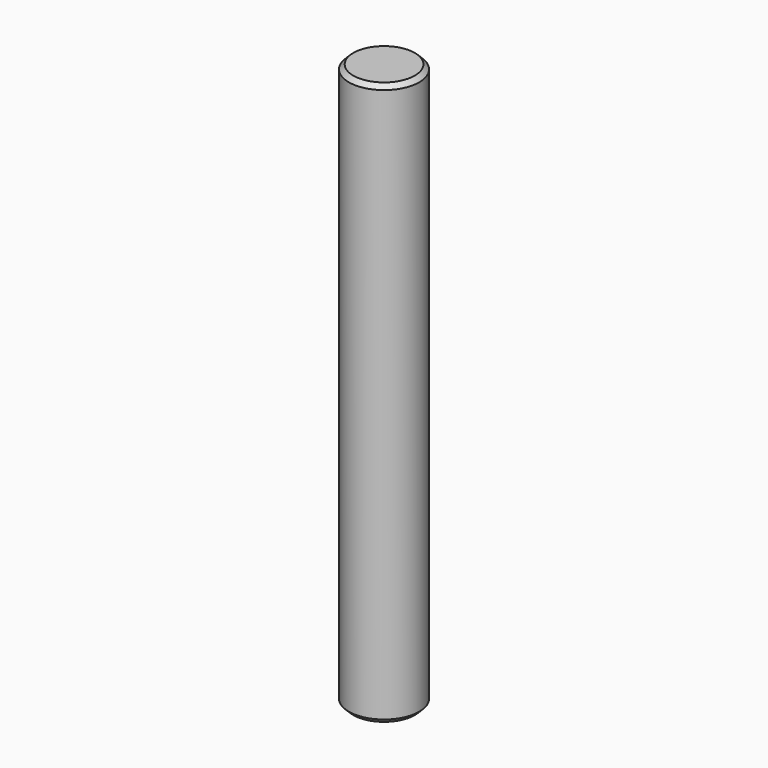
from build123d import *

# Parameters (mm, degrees)
SKETCH001_R  = 3.97
PAD_DEPTH    = 63.5
CHAMFER_SIZE = 0.5


with BuildPart() as part:
    # Sketch001 → Pad (new body)
    with BuildSketch(Plane.XY):
        Circle(SKETCH001_R)
    extrude(amount=PAD_DEPTH)

    # Chamfer
    chamfer_edges = [part.edges().sort_by_distance(p)[0] for p in [
        (-3.97, 0, 63.5),
        (-3.97, 0, 0),
    ]]
    chamfer(chamfer_edges, length=CHAMFER_SIZE)


solid = part.part
